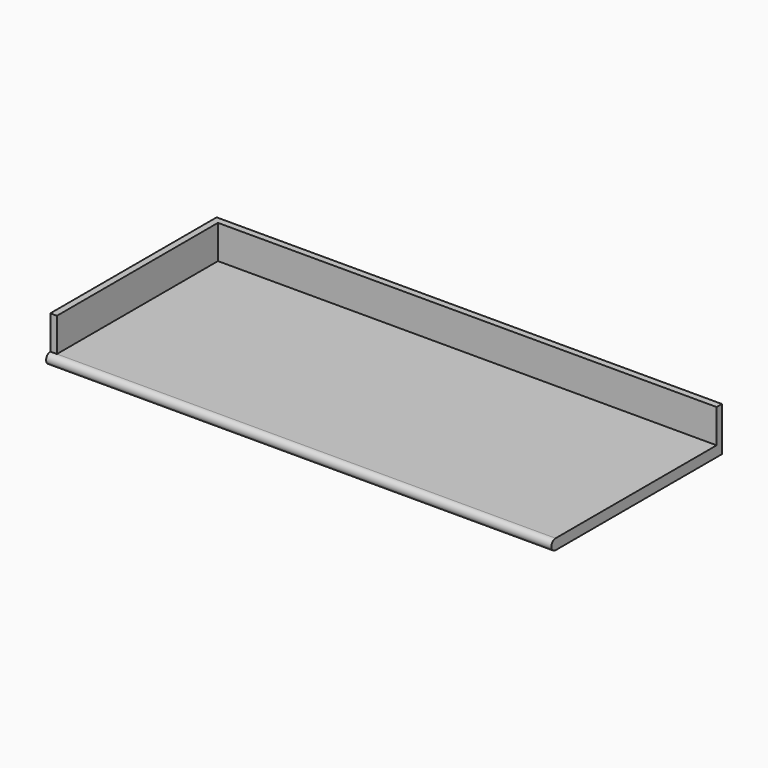
from build123d import *

# Parameters (mm, degrees)
F1_DEPTH = 1524
F3_DEPTH = 101.6


with BuildPart() as f1:
    # F0 (on Right) → F1 (new body)
    with BuildSketch(Plane.YZ):
        with BuildLine():
            Line((-627.0625, 0), (0, 0))
            Line((0, 0), (0, 31.75))
            Line((0, 31.75), (-627.0625, 31.75))
            ThreePointArc((-627.0625, 31.75), (-642.9375, 15.875), (-627.0625, 0))
        make_face()
    extrude(amount=F1_DEPTH)

    # F2 (on face) → F3 (join)
    with BuildSketch(Plane.XY.offset(31.75)):
        Polygon((19.9898, -627.0625), (19.9898, -19.9898), (1524, -19.9898), (1524, 0), (0, 0), (0, -627.0625), align=None)
    extrude(amount=F3_DEPTH)


solid = f1.part
